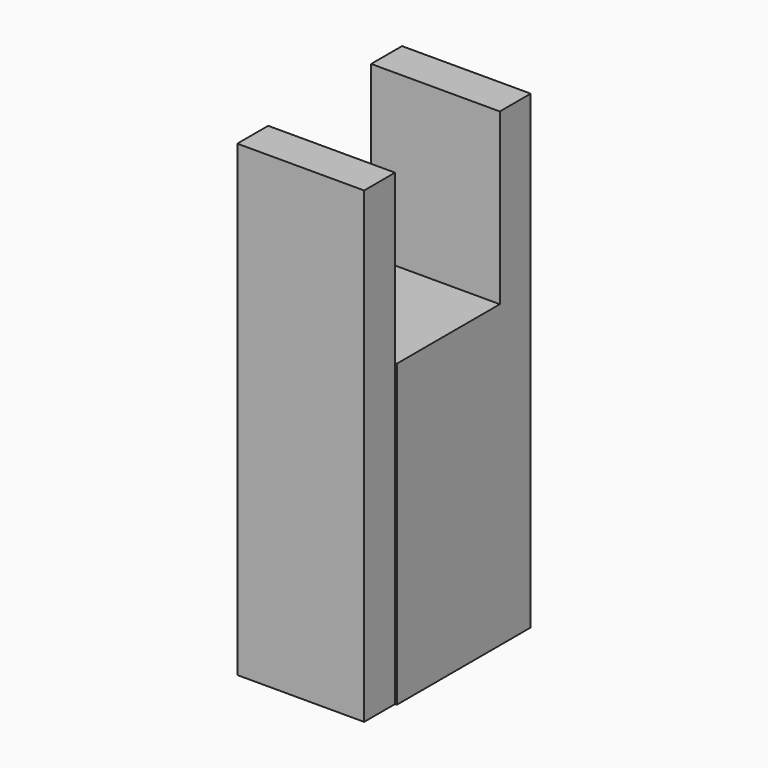
from build123d import *

# Parameters (mm, degrees)
F0_W     = 15
F0_H     = 15
F1_DEPTH = 35
F2_W     = 8.549743
F2_H     = 15
F2_W_2   = 8.769571
F3_DEPTH = 25.4
F6_W     = 15
F6_H     = 54.778755
F7_DEPTH = 4.5
F8_W     = 14.785595
F8_H     = 54.528445
F9_DEPTH = 4.5


with BuildPart() as f1:
    # F0 (on Top) → F1 (new body)
    with BuildSketch(Plane.XY):
        with Locations((7.5, 7.5)):
            Rectangle(F0_W, F0_H)
    extrude(amount=F1_DEPTH)

    # F6 (on face) → F7 (join)
    with BuildSketch(Plane(origin=(0, 15, 0), x_dir=(-1, 0, 0), z_dir=(0, 1, 0))):
        with Locations((-7.5, 27.389377)):
            Rectangle(F6_W, F6_H)
    extrude(amount=F7_DEPTH)

    # F8 (on face) → F9 (join)
    with BuildSketch(Plane.XZ):
        with Locations((7.392797, 27.264222)):
            Rectangle(F8_W, F8_H)
    extrude(amount=F9_DEPTH)


with BuildPart() as f3:
    # F2 (on face) → F3 (new body)
    with BuildSketch(Plane.XY.offset(35)):
        with Locations((19.274871, 7.5)):
            Rectangle(F2_W, F2_H)
        with Locations((-4.384785, 7.5)):
            Rectangle(F2_W_2, F2_H)
    extrude(amount=F3_DEPTH)


solid = f1.part
